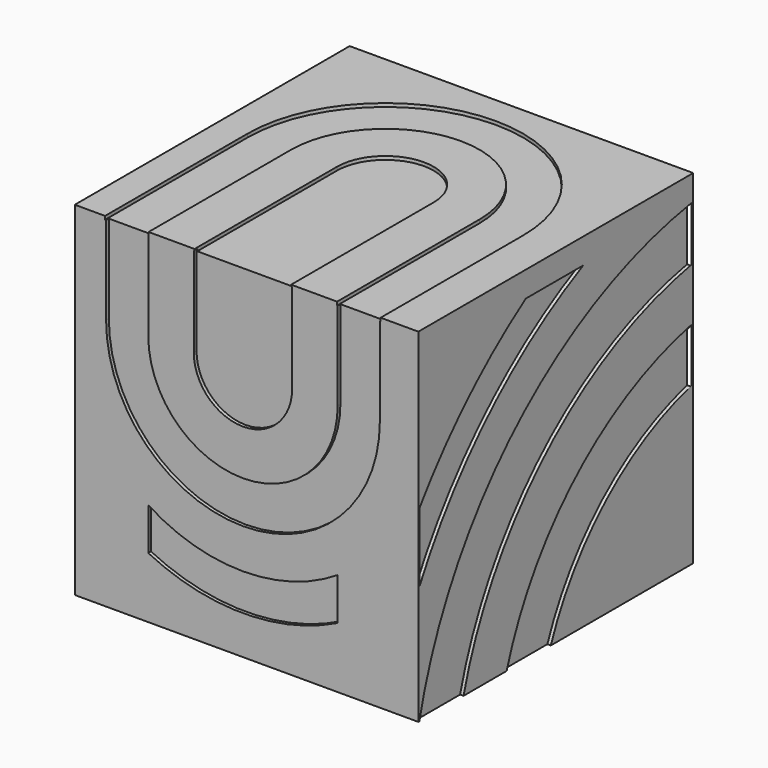
from build123d import *

# Parameters (mm, degrees)
BOX_W           = 10
BOX_H           = 10
BOX_DEPTH       = 10
POCKET_DEPTH    = 0.1
POCKET001_DEPTH = 0.1
POCKET002_DEPTH = 0.1
POCKET003_DEPTH = 0.1
POCKET004_DEPTH = 0.1
SKETCH004_R     = 3.039145
PAD_DEPTH       = 1.2
CHAMFER_SIZE    = 0.5


with BuildPart() as part:
    # Box → Box (new body)
    with BuildSketch(Plane.XY):
        with Locations((5, 5)):
            Rectangle(BOX_W, BOX_H)
    extrude(amount=BOX_DEPTH)

    # Sketch → Pocket (cut)
    with BuildSketch(Plane.XZ):
        with BuildLine():
            ThreePointArc((3.463706, 7.339263), (4.895207, 5.907762), (6.326707, 7.339263))
            Line((6.326707, 7.339263), (6.326707, 9.957689))
            Line((3.463706, 9.957689), (6.326707, 9.957689))
            Line((3.463706, 7.339263), (3.463706, 9.957689))
        make_face()
        with BuildLine():
            ThreePointArc((2.138992, 7.339263), (4.895207, 4.583048), (7.651421, 7.339263))
            Line((7.651421, 7.339263), (7.651421, 9.957689))
            Line((7.651421, 9.957689), (8.879433, 9.957689))
            Line((8.879433, 7.339263), (8.879433, 9.957689))
            ThreePointArc((0.91098, 7.339263), (4.895207, 3.355036), (8.879433, 7.339263))
            Line((0.91098, 7.339263), (0.91098, 9.957689))
            Line((0.91098, 9.957689), (2.138992, 9.957689))
            Line((2.138992, 7.339263), (2.138992, 9.957689))
        make_face()
        with BuildLine():
            ThreePointArc((2.138992, 2.99885), (4.895207, 2.197677), (7.651421, 2.99885))
            Line((7.651421, 2.99885), (7.651421, 1.770838))
            ThreePointArc((2.138992, 1.770838), (4.895207, 1.126045), (7.651421, 1.770838))
            Line((2.138992, 1.770838), (2.138992, 2.99885))
        make_face()
    extrude(amount=-POCKET_DEPTH, mode=Mode.SUBTRACT)

    # Sketch002 → Pocket001 (cut)
    with BuildSketch(Plane(origin=(0, 0, 0), x_dir=(0, -1, 0), z_dir=(-1, 0, 0))):
        with BuildLine():
            ThreePointArc((-4.81849, 0), (-6.828268, 2.9025), (-9.934856, 4.579648))
            Line((-9.934856, 6.139799), (-9.934856, 4.579648))
            ThreePointArc((-3.211477, 0), (-5.749594, 3.971752), (-9.934856, 6.139799))
            Line((-4.81849, 0), (-3.211477, 0))
        make_face()
        with BuildLine():
            ThreePointArc((-1.643138, 0), (-4.681073, 5.034844), (-9.934856, 7.676145))
            Line((-9.934856, 9.258963), (-9.934856, 7.676145))
            ThreePointArc((-0.036126, 0), (-3.575905, 6.136466), (-9.934856, 9.258963))
            Line((-1.643138, 0), (-0.036126, 0))
        make_face()
        with BuildLine():
            ThreePointArc((-0.036126, 3.448501), (-2.553846, 6.82983), (-5.999368, 9.258963))
            Line((-5.999368, 9.258963), (-3.910095, 9.258963))
            ThreePointArc((-0.036126, 5.459331), (-1.792647, 7.543141), (-3.910095, 9.258963))
            Line((-0.036126, 3.448501), (-0.036126, 5.459331))
        make_face()
    extrude(amount=-POCKET001_DEPTH, mode=Mode.SUBTRACT)

    # MirroredSketch → Pocket002 (cut)
    with BuildSketch(Plane.YZ.offset(10)):
        with BuildLine():
            ThreePointArc((9.934856, 4.579648), (6.828268, 2.9025), (4.81849, 0))
            Line((4.81849, 0), (3.211477, 0))
            ThreePointArc((9.934856, 6.139799), (5.749594, 3.971752), (3.211477, 0))
            Line((9.934856, 6.139799), (9.934856, 4.579648))
        make_face()
        with BuildLine():
            ThreePointArc((9.934856, 7.676145), (4.681073, 5.034844), (1.643138, 0))
            Line((1.643138, 0), (0.036126, 0))
            ThreePointArc((9.934856, 9.258963), (3.575905, 6.136466), (0.036126, 0))
            Line((9.934856, 9.258963), (9.934856, 7.676145))
        make_face()
        with BuildLine():
            ThreePointArc((5.999368, 9.258963), (2.553846, 6.82983), (0.036126, 3.448501))
            Line((0.036126, 3.448501), (0.036126, 5.459331))
            ThreePointArc((3.910095, 9.258963), (1.792647, 7.543141), (0.036126, 5.459331))
            Line((5.999368, 9.258963), (3.910095, 9.258963))
        make_face()
    extrude(amount=-POCKET002_DEPTH, mode=Mode.SUBTRACT)

    # Sketch003 → Pocket003 (cut)
    with BuildSketch(Plane(origin=(0, 10, 0), x_dir=(-1, 0, 0), z_dir=(0, 1, 0))):
        with BuildLine():
            Line((-9.999658, -0.012374), (-8.643554, -0.012374))
            Line((-8.643554, -0.012374), (-8.643554, 1.995852))
            ThreePointArc((-8.643554, 1.995852), (-8.940726, 4.204003), (-9.999658, 6.164336))
            Line((-9.999658, 6.164336), (-9.999658, -0.012374))
        make_face()
        with BuildLine():
            Line((-1.547691, 0), (0, 0))
            Line((0, 0), (0, 6.164336))
            ThreePointArc((0, 6.164336), (-1.204366, 4.239939), (-1.547691, 1.995852))
            Line((-1.547691, 1.995852), (-1.547691, 0))
        make_face()
        with BuildLine():
            Line((-4.104364, 0), (-2.665364, 0))
            Line((-2.665364, 0), (-2.665364, 1.995852))
            ThreePointArc((0, 7.654373), (-2.030261, 5.153697), (-2.665364, 1.995852))
            Line((0, 7.654373), (0, 9.37382))
            ThreePointArc((0, 9.37382), (-3.079716, 6.256453), (-4.104364, 1.995852))
            Line((-4.104364, 1.995852), (-4.104364, 0))
        make_face()
        with BuildLine():
            Line((-7.616147, 0), (-6.260043, 0))
            Line((-6.260043, 0), (-6.260043, 1.995852))
            ThreePointArc((-6.260043, 1.995852), (-7.181906, 6.165314), (-9.999658, 9.37382))
            Line((-9.999658, 9.37382), (-9.999658, 7.654373))
            ThreePointArc((-7.616147, 1.995852), (-8.176765, 5.090964), (-9.999658, 7.654373))
            Line((-7.616147, 1.995852), (-7.616147, 0))
        make_face()
        with BuildLine():
            Line((-6.65638, 9.37382), (-5.363037, 9.37382))
            ThreePointArc((-4.944312, 8.776727), (-5.149072, 9.078501), (-5.363037, 9.37382))
            ThreePointArc((-4.482091, 9.37382), (-4.718282, 9.079206), (-4.944312, 8.776727))
            Line((-4.482091, 9.37382), (-3.020288, 9.37382))
            ThreePointArc((-3.020288, 9.37382), (-4.094424, 8.106605), (-4.944312, 6.679266))
            ThreePointArc((-4.944312, 6.679266), (-5.700431, 8.090028), (-6.65638, 9.37382))
        make_face()
    extrude(amount=-POCKET003_DEPTH, mode=Mode.SUBTRACT)

    # Sketch001 → Pocket004 (cut)
    with BuildSketch(Plane.XY.offset(10)):
        with BuildLine():
            ThreePointArc((7.634555, 5.18548), (4.891092, 7.928942), (2.14763, 5.18548))
            Line((2.14763, 5.18548), (2.14763, -0.110033))
            Line((0.880684, -0.110033), (2.14763, -0.110033))
            Line((0.880684, 5.18548), (0.880684, -0.110033))
            ThreePointArc((8.901501, 5.18548), (4.891092, 9.195889), (0.880684, 5.18548))
            Line((8.901501, 5.18548), (8.901501, -0.110033))
            Line((7.634555, -0.110033), (8.901501, -0.110033))
            Line((7.634555, 5.18548), (7.634555, -0.110033))
        make_face()
        with BuildLine():
            ThreePointArc((6.297082, 5.18548), (4.891092, 6.591469), (3.485103, 5.18548))
            Line((3.485103, 5.18548), (3.485103, -0.110033))
            Line((3.485103, -0.110033), (6.297082, -0.110033))
            Line((6.297082, 5.18548), (6.297082, -0.110033))
        make_face()
    extrude(amount=-POCKET004_DEPTH, mode=Mode.SUBTRACT)

    # Sketch004 → Pad (new body)
    with BuildSketch(Plane(origin=(0, 0, 0), x_dir=(1, 0, 0), z_dir=(0, 0, -1))):
        with Locations((4.98763, -5.035975)):
            Circle(SKETCH004_R)
    extrude(amount=PAD_DEPTH)

    # Chamfer
    chamfer_edges = [part.edges().sort_by_distance(p)[0] for p in [
        (1.948485, 5.035975, -1.2),
    ]]
    chamfer(chamfer_edges, length=CHAMFER_SIZE)


solid = part.part
